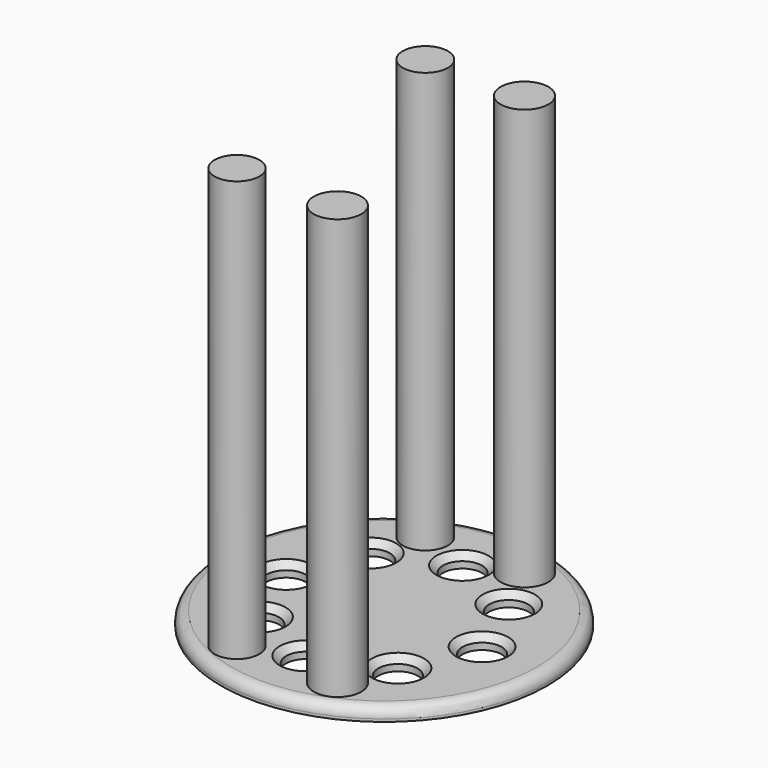
from build123d import *

# Parameters (mm, degrees)
F1_R     = 125
F1_R_2   = 15
F2_DEPTH = 10
F3_R     = 8
F4_SIZE  = 5
F5_R     = 17.149264
F5_R_2   = 18.207102
F5_R_3   = 18.26978
F5_R_4   = 17.319041
F6_DEPTH = 322


with BuildPart() as f2:
    # F1 (on face) → F2 (new body)
    with BuildSketch(Plane.XY):
        Circle(F1_R)
        with Locations((-53.033009, -53.033009)):
            Circle(F1_R_2, mode=Mode.SUBTRACT)
        with Locations((0, -75)):
            Circle(F1_R_2, mode=Mode.SUBTRACT)
        with Locations((53.033009, -53.033009)):
            Circle(F1_R_2, mode=Mode.SUBTRACT)
        with Locations((-75, 0)):
            Circle(F1_R_2, mode=Mode.SUBTRACT)
        with Locations((-53.033009, 53.033009)):
            Circle(F1_R_2, mode=Mode.SUBTRACT)
        with Locations((53.033009, 53.033009)):
            Circle(F1_R_2, mode=Mode.SUBTRACT)
        with Locations((75, 0)):
            Circle(F1_R_2, mode=Mode.SUBTRACT)
        with Locations((0, 75)):
            Circle(F1_R_2, mode=Mode.SUBTRACT)
    extrude(amount=-F2_DEPTH)

    # F3
    f3_edges = [f2.edges().sort_by_distance(p)[0] for p in [
        (-125, 0, 0),
    ]]
    fillet(f3_edges, radius=F3_R)

    # F4
    f4_edges = [f2.edges().sort_by_distance(p)[0] for p in [
        (-68.033009, 53.033009, 0),
        (-15, 75, 0),
        (-90, 0, 0),
        (38.033009, 53.033009, 0),
        (-68.033009, -53.033009, 0),
        (-15, -75, 0),
        (38.033009, -53.033009, 0),
        (60, 0, 0),
    ]]
    chamfer(f4_edges, length=F4_SIZE)

    # F5 (on face) → F6 (join)
    with BuildSketch(Plane.XY):
        with Locations((-40.163934, -90.607919)):
            Circle(F5_R)
        with Locations((36.81694, -90.607919)):
            Circle(F5_R_2)
        with Locations((35.382513, 90.129778)):
            Circle(F5_R_3)
        with Locations((-40.163934, 89.651637)):
            Circle(F5_R_4)
    extrude(amount=F6_DEPTH)


solid = f2.part
